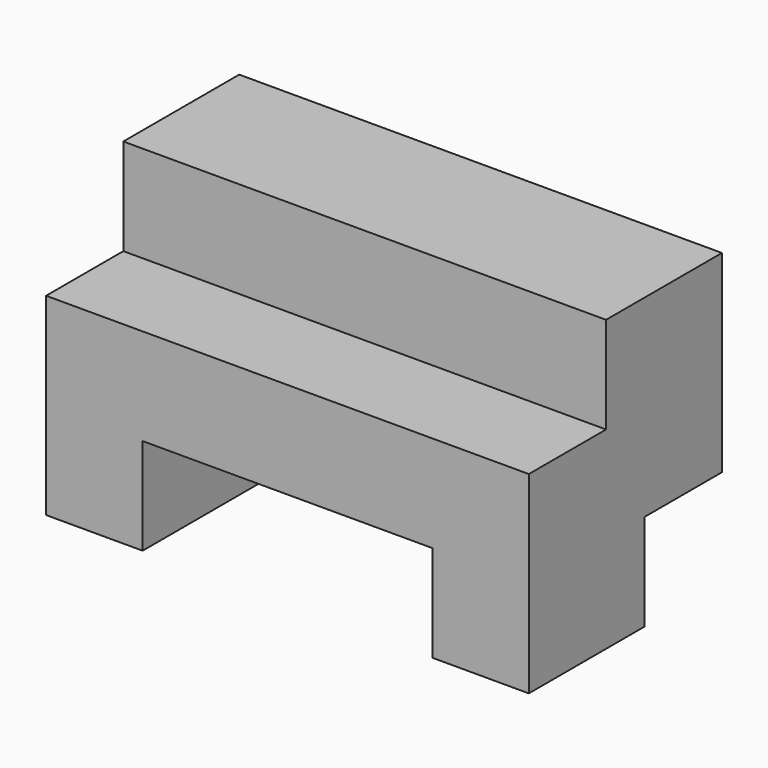
from build123d import *

# Parameters (mm, degrees)
F0_W     = 127
F0_H     = 76.2
F1_DEPTH = 63.5
F2_W     = 76.2
F2_H     = 25.4
F3_DEPTH = 63.501
F4_W     = 25.4
F4_H     = 25.4
F5_DEPTH = 127.001


with BuildPart() as f1:
    # F0 (on Front) → F1 (new body)
    with BuildSketch(Plane.XZ):
        with Locations((-22.534849, -19.497559)):
            Rectangle(F0_W, F0_H)
    extrude(amount=F1_DEPTH)

    # F2 (on face) → F3 (cut, through all)
    with BuildSketch(Plane.XZ.offset(63.5)):
        with Locations((-22.534849, -44.897559)):
            Rectangle(F2_W, F2_H)
    extrude(amount=-F3_DEPTH, mode=Mode.SUBTRACT)

    # F4 (on face) → F5 (cut, through all)
    with BuildSketch(Plane.YZ.offset(40.965151)):
        with Locations((-12.7, -44.897559)):
            Rectangle(F4_W, F4_H)
        with Locations((-50.8, 5.902441)):
            Rectangle(F4_W, F4_H)
    extrude(amount=-F5_DEPTH, mode=Mode.SUBTRACT)


solid = f1.part
